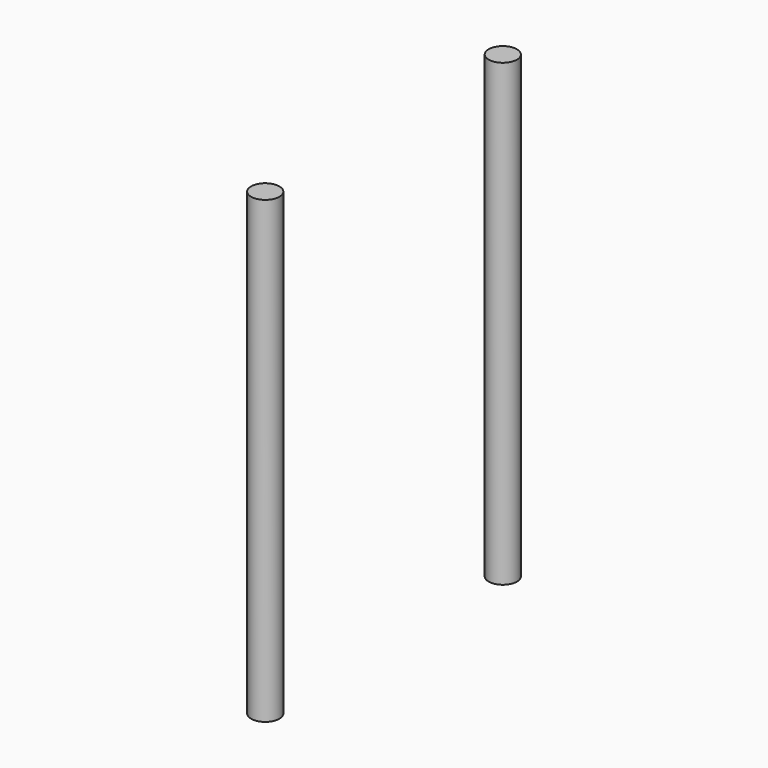
from build123d import *

# Parameters (mm, degrees)
CYLINDER366_R     = 2
CYLINDER366_DEPTH = 65
CYLINDER367_R     = 2
CYLINDER367_DEPTH = 65


with BuildPart() as cylinder366:
    # Cylinder366 → Cylinder366 (new body)
    with BuildSketch(Plane(origin=(-90, -103, -10), x_dir=(1, 0, 0), z_dir=(0, 0, 1))):
        Circle(CYLINDER366_R)
    extrude(amount=CYLINDER366_DEPTH)


with BuildPart() as fusion367:
    # Cylinder367 → Cylinder367 (new body)
    with BuildSketch(Plane(origin=(-90, -61, -10), x_dir=(1, 0, 0), z_dir=(0, 0, 1))):
        Circle(CYLINDER367_R)
    extrude(amount=CYLINDER367_DEPTH)

    # Fusion367: union Cylinder366
    add(cylinder366.part)


with BuildPart() as fusion367_1:
    # Fusion367 placement: moved
    add(fusion367.part.moved(Location((-2, 123, 0))))


solid = fusion367_1.part
